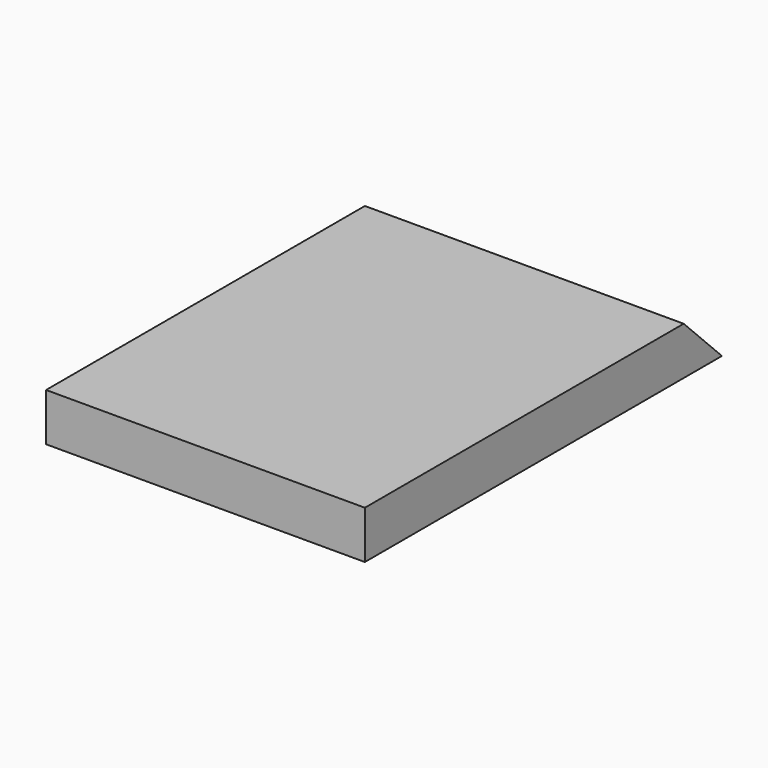
from build123d import *

# Parameters (mm, degrees)
F0_W     = 127
F0_H     = 177.8
F1_DEPTH = 19.05
F3_DEPTH = 127


with BuildPart() as f1:
    # F0 (on Top) → F1 (new body)
    with BuildSketch(Plane.XY):
        with Locations((-6.453831, 16.612919)):
            Rectangle(F0_W, F0_H)
    extrude(amount=F1_DEPTH)

    # F2 (on face) → F3 (cut)
    with BuildSketch(Plane(origin=(-69.953831, 0, 0), x_dir=(0, -1, 0), z_dir=(-1, 0, 0))):
        Polygon((-105.512919, 19.05), (-105.512919, 0), (-86.462919, 19.05), align=None)
    extrude(amount=-F3_DEPTH, mode=Mode.SUBTRACT)


solid = f1.part
